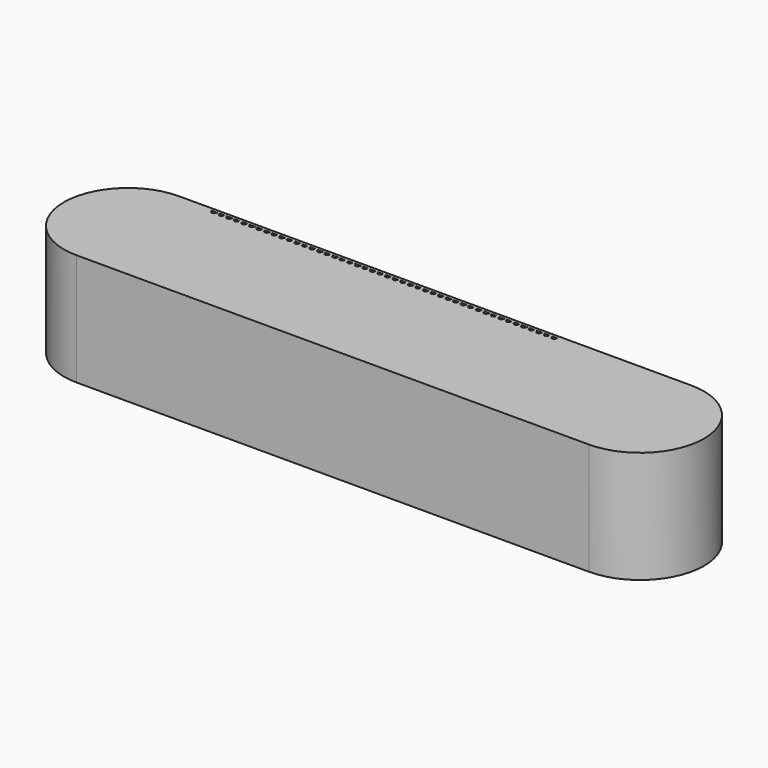
from build123d import *

# Parameters (mm, degrees)
F1_DEPTH = 44.45


with BuildPart() as f1:
    # F0 (on Top) → F1 (new body)
    with BuildSketch(Plane.XY):
        with BuildLine():
            ThreePointArc((-101.6, 25.4), (-127, 0), (-101.6, -25.4))
            Line((-101.6, -25.4), (101.6, -25.4))
            ThreePointArc((101.6, -25.4), (127, 0), (101.6, 25.4))
            Line((101.6, 25.4), (-101.6, 25.4))
        make_face()
        with BuildLine():
            ThreePointArc((-85.332574, 24.14), (-85.606355, 24.031587), (-85.753197, 23.776349))
            ThreePointArc((-85.753197, 23.776349), (-86.6, 23), (-87.446803, 23.776349))
            ThreePointArc((-87.446803, 23.776349), (-87.593645, 24.031587), (-87.867426, 24.14))
            Line((-87.867426, 24.14), (-85.332574, 24.14))
        make_face(mode=Mode.SUBTRACT)
        with BuildLine():
            ThreePointArc((-84.446803, 23.776349), (-84.593645, 24.031587), (-84.867426, 24.14))
            Line((-84.867426, 24.14), (-82.332574, 24.14))
            ThreePointArc((-82.332574, 24.14), (-82.606355, 24.031587), (-82.753197, 23.776349))
            ThreePointArc((-82.753197, 23.776349), (-83.6, 23), (-84.446803, 23.776349))
        make_face(mode=Mode.SUBTRACT)
        with BuildLine():
            ThreePointArc((-81.446803, 23.776349), (-81.593645, 24.031587), (-81.867426, 24.14))
            Line((-81.867426, 24.14), (-79.332574, 24.14))
            ThreePointArc((-79.332574, 24.14), (-79.606355, 24.031587), (-79.753197, 23.776349))
            ThreePointArc((-79.753197, 23.776349), (-80.6, 23), (-81.446803, 23.776349))
        make_face(mode=Mode.SUBTRACT)
        with BuildLine():
            ThreePointArc((-78.446803, 23.776349), (-78.593645, 24.031587), (-78.867426, 24.14))
            Line((-78.867426, 24.14), (-76.332574, 24.14))
            ThreePointArc((-76.332574, 24.14), (-76.606355, 24.031587), (-76.753197, 23.776349))
            ThreePointArc((-76.753197, 23.776349), (-77.6, 23), (-78.446803, 23.776349))
        make_face(mode=Mode.SUBTRACT)
        with BuildLine():
            ThreePointArc((-75.446803, 23.776349), (-75.593645, 24.031587), (-75.867426, 24.14))
            Line((-75.867426, 24.14), (-73.332574, 24.14))
            ThreePointArc((-73.332574, 24.14), (-73.606355, 24.031587), (-73.753197, 23.776349))
            ThreePointArc((-73.753197, 23.776349), (-74.6, 23), (-75.446803, 23.776349))
        make_face(mode=Mode.SUBTRACT)
        with BuildLine():
            ThreePointArc((-72.446803, 23.776349), (-72.593645, 24.031587), (-72.867426, 24.14))
            Line((-72.867426, 24.14), (-70.332574, 24.14))
            ThreePointArc((-70.332574, 24.14), (-70.606355, 24.031587), (-70.753197, 23.776349))
            ThreePointArc((-70.753197, 23.776349), (-71.6, 23), (-72.446803, 23.776349))
        make_face(mode=Mode.SUBTRACT)
        with BuildLine():
            ThreePointArc((-69.446803, 23.776349), (-69.593645, 24.031587), (-69.867426, 24.14))
            Line((-69.867426, 24.14), (-67.332574, 24.14))
            ThreePointArc((-67.332574, 24.14), (-67.606355, 24.031587), (-67.753197, 23.776349))
            ThreePointArc((-67.753197, 23.776349), (-68.6, 23), (-69.446803, 23.776349))
        make_face(mode=Mode.SUBTRACT)
        with BuildLine():
            ThreePointArc((-66.446803, 23.776349), (-66.593645, 24.031587), (-66.867426, 24.14))
            Line((-66.867426, 24.14), (-64.332574, 24.14))
            ThreePointArc((-64.332574, 24.14), (-64.606355, 24.031587), (-64.753197, 23.776349))
            ThreePointArc((-64.753197, 23.776349), (-65.6, 23), (-66.446803, 23.776349))
        make_face(mode=Mode.SUBTRACT)
        with BuildLine():
            ThreePointArc((-63.446803, 23.776349), (-63.593645, 24.031587), (-63.867426, 24.14))
            Line((-63.867426, 24.14), (-61.332574, 24.14))
            ThreePointArc((-61.332574, 24.14), (-61.606355, 24.031587), (-61.753197, 23.776349))
            ThreePointArc((-61.753197, 23.776349), (-62.6, 23), (-63.446803, 23.776349))
        make_face(mode=Mode.SUBTRACT)
        with BuildLine():
            ThreePointArc((-60.446803, 23.776349), (-60.593645, 24.031587), (-60.867426, 24.14))
            Line((-60.867426, 24.14), (-58.332574, 24.14))
            ThreePointArc((-58.332574, 24.14), (-58.606355, 24.031587), (-58.753197, 23.776349))
            ThreePointArc((-58.753197, 23.776349), (-59.6, 23), (-60.446803, 23.776349))
        make_face(mode=Mode.SUBTRACT)
        with BuildLine():
            ThreePointArc((-57.446803, 23.776349), (-57.593645, 24.031587), (-57.867426, 24.14))
            Line((-57.867426, 24.14), (-55.332574, 24.14))
            ThreePointArc((-55.332574, 24.14), (-55.606355, 24.031587), (-55.753197, 23.776349))
            ThreePointArc((-55.753197, 23.776349), (-56.6, 23), (-57.446803, 23.776349))
        make_face(mode=Mode.SUBTRACT)
        with BuildLine():
            ThreePointArc((-54.446803, 23.776349), (-54.593645, 24.031587), (-54.867426, 24.14))
            Line((-54.867426, 24.14), (-52.332574, 24.14))
            ThreePointArc((-52.332574, 24.14), (-52.606355, 24.031587), (-52.753197, 23.776349))
            ThreePointArc((-52.753197, 23.776349), (-53.6, 23), (-54.446803, 23.776349))
        make_face(mode=Mode.SUBTRACT)
        with BuildLine():
            ThreePointArc((-51.446803, 23.776349), (-51.593645, 24.031587), (-51.867426, 24.14))
            Line((-51.867426, 24.14), (-49.332574, 24.14))
            ThreePointArc((-49.332574, 24.14), (-49.606355, 24.031587), (-49.753197, 23.776349))
            ThreePointArc((-49.753197, 23.776349), (-50.6, 23), (-51.446803, 23.776349))
        make_face(mode=Mode.SUBTRACT)
        with BuildLine():
            ThreePointArc((-48.446803, 23.776349), (-48.593645, 24.031587), (-48.867426, 24.14))
            Line((-48.867426, 24.14), (-46.332574, 24.14))
            ThreePointArc((-46.332574, 24.14), (-46.606355, 24.031587), (-46.753197, 23.776349))
            ThreePointArc((-46.753197, 23.776349), (-47.6, 23), (-48.446803, 23.776349))
        make_face(mode=Mode.SUBTRACT)
        with BuildLine():
            ThreePointArc((-45.446803, 23.776349), (-45.593645, 24.031587), (-45.867426, 24.14))
            Line((-45.867426, 24.14), (-43.332574, 24.14))
            ThreePointArc((-43.332574, 24.14), (-43.606355, 24.031587), (-43.753197, 23.776349))
            ThreePointArc((-43.753197, 23.776349), (-44.6, 23), (-45.446803, 23.776349))
        make_face(mode=Mode.SUBTRACT)
        with BuildLine():
            ThreePointArc((-42.446803, 23.776349), (-42.593645, 24.031587), (-42.867426, 24.14))
            Line((-42.867426, 24.14), (-40.332574, 24.14))
            ThreePointArc((-40.332574, 24.14), (-40.606355, 24.031587), (-40.753197, 23.776349))
            ThreePointArc((-40.753197, 23.776349), (-41.6, 23), (-42.446803, 23.776349))
        make_face(mode=Mode.SUBTRACT)
        with BuildLine():
            ThreePointArc((-39.446803, 23.776349), (-39.593645, 24.031587), (-39.867426, 24.14))
            Line((-39.867426, 24.14), (-37.332574, 24.14))
            ThreePointArc((-37.332574, 24.14), (-37.606355, 24.031587), (-37.753197, 23.776349))
            ThreePointArc((-37.753197, 23.776349), (-38.6, 23), (-39.446803, 23.776349))
        make_face(mode=Mode.SUBTRACT)
        with BuildLine():
            ThreePointArc((-36.446803, 23.776349), (-36.593645, 24.031587), (-36.867426, 24.14))
            Line((-36.867426, 24.14), (-34.332574, 24.14))
            ThreePointArc((-34.332574, 24.14), (-34.606355, 24.031587), (-34.753197, 23.776349))
            ThreePointArc((-34.753197, 23.776349), (-35.6, 23), (-36.446803, 23.776349))
        make_face(mode=Mode.SUBTRACT)
        with BuildLine():
            ThreePointArc((-33.446803, 23.776349), (-33.593645, 24.031587), (-33.867426, 24.14))
            Line((-33.867426, 24.14), (-31.332574, 24.14))
            ThreePointArc((-31.332574, 24.14), (-31.606355, 24.031587), (-31.753197, 23.776349))
            ThreePointArc((-31.753197, 23.776349), (-32.6, 23), (-33.446803, 23.776349))
        make_face(mode=Mode.SUBTRACT)
        with BuildLine():
            ThreePointArc((-30.446803, 23.776349), (-30.593645, 24.031587), (-30.867426, 24.14))
            Line((-30.867426, 24.14), (-28.332574, 24.14))
            ThreePointArc((-28.332574, 24.14), (-28.606355, 24.031587), (-28.753197, 23.776349))
            ThreePointArc((-28.753197, 23.776349), (-29.6, 23), (-30.446803, 23.776349))
        make_face(mode=Mode.SUBTRACT)
        with BuildLine():
            ThreePointArc((-27.446803, 23.776349), (-27.593645, 24.031587), (-27.867426, 24.14))
            Line((-27.867426, 24.14), (-25.332574, 24.14))
            ThreePointArc((-25.332574, 24.14), (-25.606355, 24.031587), (-25.753197, 23.776349))
            ThreePointArc((-25.753197, 23.776349), (-26.6, 23), (-27.446803, 23.776349))
        make_face(mode=Mode.SUBTRACT)
        with BuildLine():
            ThreePointArc((-24.446803, 23.776349), (-24.593645, 24.031587), (-24.867426, 24.14))
            Line((-24.867426, 24.14), (-22.332574, 24.14))
            ThreePointArc((-22.332574, 24.14), (-22.606355, 24.031587), (-22.753197, 23.776349))
            ThreePointArc((-22.753197, 23.776349), (-23.6, 23), (-24.446803, 23.776349))
        make_face(mode=Mode.SUBTRACT)
        with BuildLine():
            ThreePointArc((-21.446803, 23.776349), (-21.593645, 24.031587), (-21.867426, 24.14))
            Line((-21.867426, 24.14), (-19.332574, 24.14))
            ThreePointArc((-19.332574, 24.14), (-19.606355, 24.031587), (-19.753197, 23.776349))
            ThreePointArc((-19.753197, 23.776349), (-20.6, 23), (-21.446803, 23.776349))
        make_face(mode=Mode.SUBTRACT)
        with BuildLine():
            ThreePointArc((-18.446803, 23.776349), (-18.593645, 24.031587), (-18.867426, 24.14))
            Line((-18.867426, 24.14), (-16.332574, 24.14))
            ThreePointArc((-16.332574, 24.14), (-16.606355, 24.031587), (-16.753197, 23.776349))
            ThreePointArc((-16.753197, 23.776349), (-17.6, 23), (-18.446803, 23.776349))
        make_face(mode=Mode.SUBTRACT)
        with BuildLine():
            ThreePointArc((-15.446803, 23.776349), (-15.593645, 24.031587), (-15.867426, 24.14))
            Line((-15.867426, 24.14), (-13.332574, 24.14))
            ThreePointArc((-13.332574, 24.14), (-13.606355, 24.031587), (-13.753197, 23.776349))
            ThreePointArc((-13.753197, 23.776349), (-14.6, 23), (-15.446803, 23.776349))
        make_face(mode=Mode.SUBTRACT)
        with BuildLine():
            ThreePointArc((-12.446803, 23.776349), (-12.593645, 24.031587), (-12.867426, 24.14))
            Line((-12.867426, 24.14), (-10.332574, 24.14))
            ThreePointArc((-10.332574, 24.14), (-10.606355, 24.031587), (-10.753197, 23.776349))
            ThreePointArc((-10.753197, 23.776349), (-11.6, 23), (-12.446803, 23.776349))
        make_face(mode=Mode.SUBTRACT)
        with BuildLine():
            ThreePointArc((-9.446803, 23.776349), (-9.593645, 24.031587), (-9.867426, 24.14))
            Line((-9.867426, 24.14), (-7.332574, 24.14))
            ThreePointArc((-7.332574, 24.14), (-7.606355, 24.031587), (-7.753197, 23.776349))
            ThreePointArc((-7.753197, 23.776349), (-8.6, 23), (-9.446803, 23.776349))
        make_face(mode=Mode.SUBTRACT)
        with BuildLine():
            ThreePointArc((-6.446803, 23.776349), (-6.593645, 24.031587), (-6.867426, 24.14))
            Line((-6.867426, 24.14), (-4.332574, 24.14))
            ThreePointArc((-4.332574, 24.14), (-4.606355, 24.031587), (-4.753197, 23.776349))
            ThreePointArc((-4.753197, 23.776349), (-5.6, 23), (-6.446803, 23.776349))
        make_face(mode=Mode.SUBTRACT)
        with BuildLine():
            ThreePointArc((-3.446803, 23.776349), (-3.593645, 24.031587), (-3.867426, 24.14))
            Line((-3.867426, 24.14), (-1.332574, 24.14))
            ThreePointArc((-1.332574, 24.14), (-1.606355, 24.031587), (-1.753197, 23.776349))
            ThreePointArc((-1.753197, 23.776349), (-2.6, 23), (-3.446803, 23.776349))
        make_face(mode=Mode.SUBTRACT)
        with BuildLine():
            ThreePointArc((-0.446803, 23.776349), (-0.593645, 24.031587), (-0.867426, 24.14))
            Line((-0.867426, 24.14), (1.667426, 24.14))
            ThreePointArc((1.667426, 24.14), (1.393645, 24.031587), (1.246803, 23.776349))
            ThreePointArc((1.246803, 23.776349), (0.4, 23), (-0.446803, 23.776349))
        make_face(mode=Mode.SUBTRACT)
        with BuildLine():
            ThreePointArc((2.553197, 23.776349), (2.406355, 24.031587), (2.132574, 24.14))
            Line((2.132574, 24.14), (4.667426, 24.14))
            ThreePointArc((4.667426, 24.14), (4.393645, 24.031587), (4.246803, 23.776349))
            ThreePointArc((4.246803, 23.776349), (3.4, 23), (2.553197, 23.776349))
        make_face(mode=Mode.SUBTRACT)
        with BuildLine():
            ThreePointArc((5.553197, 23.776349), (5.406355, 24.031587), (5.132574, 24.14))
            Line((5.132574, 24.14), (7.667426, 24.14))
            ThreePointArc((7.667426, 24.14), (7.393645, 24.031587), (7.246803, 23.776349))
            ThreePointArc((7.246803, 23.776349), (6.4, 23), (5.553197, 23.776349))
        make_face(mode=Mode.SUBTRACT)
        with BuildLine():
            ThreePointArc((8.553197, 23.776349), (8.406355, 24.031587), (8.132574, 24.14))
            Line((8.132574, 24.14), (10.667426, 24.14))
            ThreePointArc((10.667426, 24.14), (10.393645, 24.031587), (10.246803, 23.776349))
            ThreePointArc((10.246803, 23.776349), (9.4, 23), (8.553197, 23.776349))
        make_face(mode=Mode.SUBTRACT)
        with BuildLine():
            ThreePointArc((11.553197, 23.776349), (11.406355, 24.031587), (11.132574, 24.14))
            Line((11.132574, 24.14), (13.667426, 24.14))
            ThreePointArc((13.667426, 24.14), (13.393645, 24.031587), (13.246803, 23.776349))
            ThreePointArc((13.246803, 23.776349), (12.4, 23), (11.553197, 23.776349))
        make_face(mode=Mode.SUBTRACT)
        with BuildLine():
            ThreePointArc((14.553197, 23.776349), (14.406355, 24.031587), (14.132574, 24.14))
            Line((14.132574, 24.14), (16.667426, 24.14))
            ThreePointArc((16.667426, 24.14), (16.393645, 24.031587), (16.246803, 23.776349))
            ThreePointArc((16.246803, 23.776349), (15.4, 23), (14.553197, 23.776349))
        make_face(mode=Mode.SUBTRACT)
        with BuildLine():
            ThreePointArc((17.553197, 23.776349), (17.406355, 24.031587), (17.132574, 24.14))
            Line((17.132574, 24.14), (19.667426, 24.14))
            ThreePointArc((19.667426, 24.14), (19.393645, 24.031587), (19.246803, 23.776349))
            ThreePointArc((19.246803, 23.776349), (18.4, 23), (17.553197, 23.776349))
        make_face(mode=Mode.SUBTRACT)
        with BuildLine():
            ThreePointArc((20.553197, 23.776349), (20.406355, 24.031587), (20.132574, 24.14))
            Line((20.132574, 24.14), (22.667426, 24.14))
            ThreePointArc((22.667426, 24.14), (22.393645, 24.031587), (22.246803, 23.776349))
            ThreePointArc((22.246803, 23.776349), (21.4, 23), (20.553197, 23.776349))
        make_face(mode=Mode.SUBTRACT)
        with BuildLine():
            ThreePointArc((23.553197, 23.776349), (23.406355, 24.031587), (23.132574, 24.14))
            Line((23.132574, 24.14), (25.667426, 24.14))
            ThreePointArc((25.667426, 24.14), (25.393645, 24.031587), (25.246803, 23.776349))
            ThreePointArc((25.246803, 23.776349), (24.4, 23), (23.553197, 23.776349))
        make_face(mode=Mode.SUBTRACT)
        with BuildLine():
            ThreePointArc((26.553197, 23.776349), (26.406355, 24.031587), (26.132574, 24.14))
            Line((26.132574, 24.14), (28.667426, 24.14))
            ThreePointArc((28.667426, 24.14), (28.393645, 24.031587), (28.246803, 23.776349))
            ThreePointArc((28.246803, 23.776349), (27.4, 23), (26.553197, 23.776349))
        make_face(mode=Mode.SUBTRACT)
        with BuildLine():
            ThreePointArc((29.553197, 23.776349), (29.406355, 24.031587), (29.132574, 24.14))
            Line((29.132574, 24.14), (31.667426, 24.14))
            ThreePointArc((31.667426, 24.14), (31.393645, 24.031587), (31.246803, 23.776349))
            ThreePointArc((31.246803, 23.776349), (30.4, 23), (29.553197, 23.776349))
        make_face(mode=Mode.SUBTRACT)
        with BuildLine():
            ThreePointArc((32.553197, 23.776349), (32.406355, 24.031587), (32.132574, 24.14))
            Line((32.132574, 24.14), (34.667426, 24.14))
            ThreePointArc((34.667426, 24.14), (34.393645, 24.031587), (34.246803, 23.776349))
            ThreePointArc((34.246803, 23.776349), (33.4, 23), (32.553197, 23.776349))
        make_face(mode=Mode.SUBTRACT)
        with BuildLine():
            ThreePointArc((35.553197, 23.776349), (35.406355, 24.031587), (35.132574, 24.14))
            Line((35.132574, 24.14), (37.667426, 24.14))
            ThreePointArc((37.667426, 24.14), (37.393645, 24.031587), (37.246803, 23.776349))
            ThreePointArc((37.246803, 23.776349), (36.4, 23), (35.553197, 23.776349))
        make_face(mode=Mode.SUBTRACT)
        with BuildLine():
            ThreePointArc((38.553197, 23.776349), (38.406355, 24.031587), (38.132574, 24.14))
            Line((38.132574, 24.14), (40.667426, 24.14))
            ThreePointArc((40.667426, 24.14), (40.393645, 24.031587), (40.246803, 23.776349))
            ThreePointArc((40.246803, 23.776349), (39.4, 23), (38.553197, 23.776349))
        make_face(mode=Mode.SUBTRACT)
        with BuildLine():
            ThreePointArc((41.553197, 23.776349), (41.406355, 24.031587), (41.132574, 24.14))
            Line((41.132574, 24.14), (43.667426, 24.14))
            ThreePointArc((43.667426, 24.14), (43.393645, 24.031587), (43.246803, 23.776349))
            ThreePointArc((43.246803, 23.776349), (42.4, 23), (41.553197, 23.776349))
        make_face(mode=Mode.SUBTRACT)
        with BuildLine():
            ThreePointArc((44.553197, 23.776349), (44.406355, 24.031587), (44.132574, 24.14))
            Line((44.132574, 24.14), (46.667426, 24.14))
            ThreePointArc((46.667426, 24.14), (46.393645, 24.031587), (46.246803, 23.776349))
            ThreePointArc((46.246803, 23.776349), (45.4, 23), (44.553197, 23.776349))
        make_face(mode=Mode.SUBTRACT)
        with BuildLine():
            ThreePointArc((47.553197, 23.776349), (47.406355, 24.031587), (47.132574, 24.14))
            Line((47.132574, 24.14), (49.667426, 24.14))
            ThreePointArc((49.667426, 24.14), (49.393645, 24.031587), (49.246803, 23.776349))
            ThreePointArc((49.246803, 23.776349), (48.4, 23), (47.553197, 23.776349))
        make_face(mode=Mode.SUBTRACT)
    extrude(amount=F1_DEPTH)


solid = f1.part
